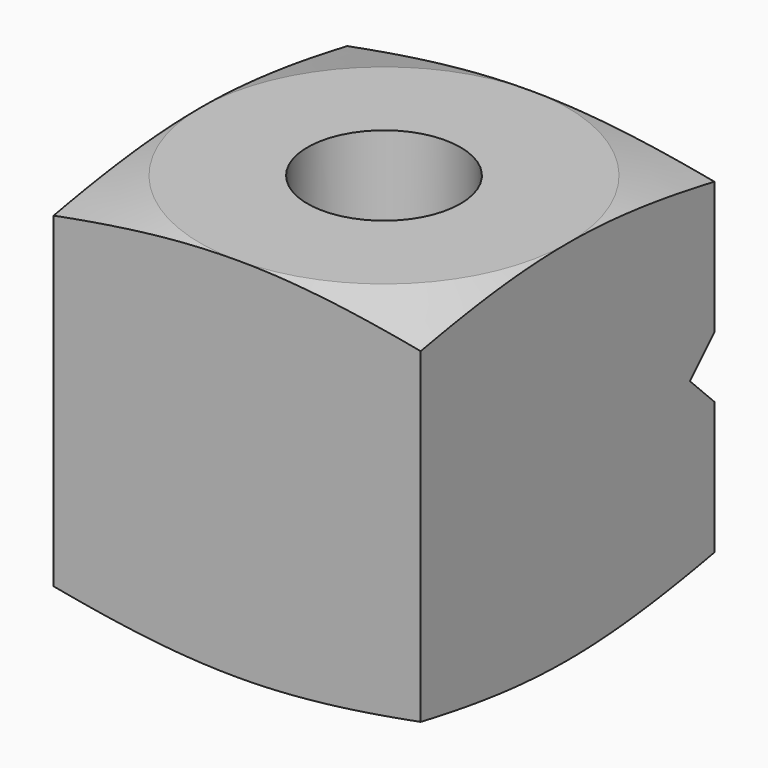
from build123d import *

# Parameters (mm, degrees)
F0_W     = 19.05
F0_H     = 19.05
F0_R     = 3.96875
F1_DEPTH = 9.525
F6_DEPTH = 19.051


with BuildPart() as f1:
    # F0 (on Top) → F1 (new body)
    with BuildSketch(Plane.XY):
        Rectangle(F0_W, F0_H)
        Circle(F0_R, mode=Mode.SUBTRACT)
    extrude(amount=F1_DEPTH)

    # F4: sweep along a path in F2
    with BuildLine(Plane.XY.offset(9.525)) as f4_path:
        CenterArc((0, 0), 9.525, 0, 360)
    # F3 (on Right) → F4 (sweep, cut)
    with BuildSketch(Plane.YZ):
        Polygon((-14.469163, 8.200215), (-9.525, 9.525), (-14.469163, 9.525), align=None)
    sweep(path=f4_path.line, mode=Mode.SUBTRACT)

    # F5 (on face) → F6 (cut, through all)
    with BuildSketch(Plane.YZ.offset(9.525)):
        Polygon((7.9375, 0), (9.525, 0), (9.525, 1.5875), align=None)
    extrude(amount=-F6_DEPTH, mode=Mode.SUBTRACT)

    # F7: F1 across face


with BuildPart() as f1_1:
    add(f1.part)
    add(f1.part.mirror(Plane(origin=(0, -0.932452, 0), x_dir=(1, 0, 0), z_dir=(0, 0, -1))))


solid = f1_1.part
